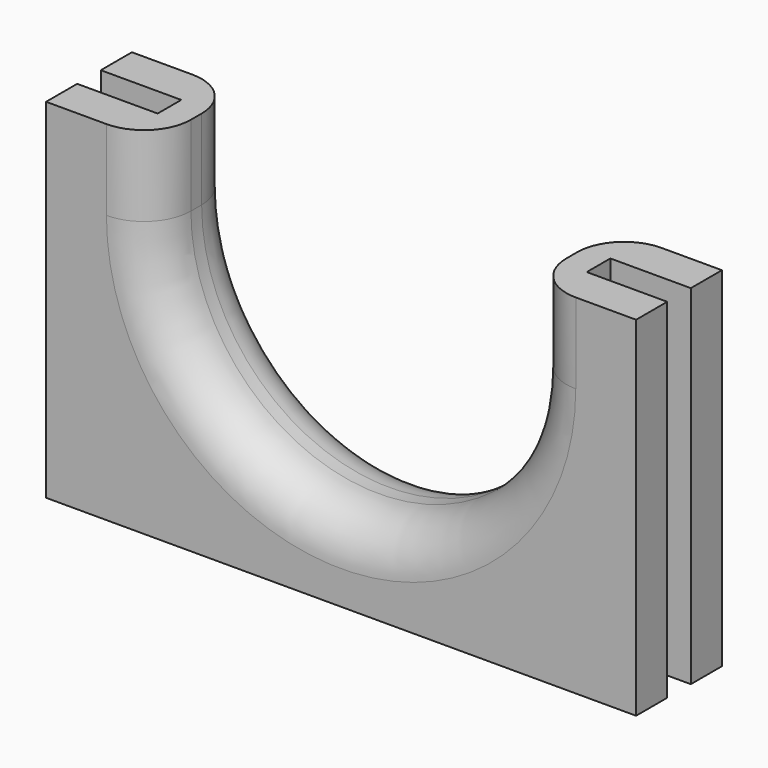
from build123d import *

# Parameters (mm, degrees)
PAD_DEPTH    = 2
POCKET_DEPTH = 0.55
FILLET_R     = 1.75


with BuildPart() as part:
    # Sketch → Pad (new body, symmetric)
    with BuildSketch(Plane.XZ):
        with BuildLine():
            Line((11, 0), (-11, 0))
            Line((-11, 0), (-11, 13))
            Line((-11, 13), (-7, 13))
            Line((-7, 13), (-7, 10))
            ThreePointArc((-7, 10), (0, 3), (7, 10))
            Line((7, 13), (7, 10))
            Line((11, 13), (7, 13))
            Line((11, 13), (11, 0))
        make_face()
    extrude(amount=PAD_DEPTH, both=True)

    # Sketch001 → Pocket (cut, symmetric)
    with BuildSketch(Plane.XZ):
        with BuildLine():
            Line((8, 10), (8, 16))
            Line((8, 16), (12, 16))
            Line((12, 16), (12, 0))
            Line((12, 0), (-12, 0))
            Line((-12, 0), (-12, 16))
            Line((-12, 16), (-8, 16))
            Line((-8, 16), (-8, 10))
            ThreePointArc((-8, 10), (0, 2), (8, 10))
        make_face()
    extrude(amount=POCKET_DEPTH, both=True, mode=Mode.SUBTRACT)

    # Fillet
    fillet_edges = [part.edges().sort_by_distance(p)[0] for p in [
        (0, 2, 3),
        (0, -2, 3),
    ]]
    fillet(fillet_edges, radius=FILLET_R)


solid = part.part
